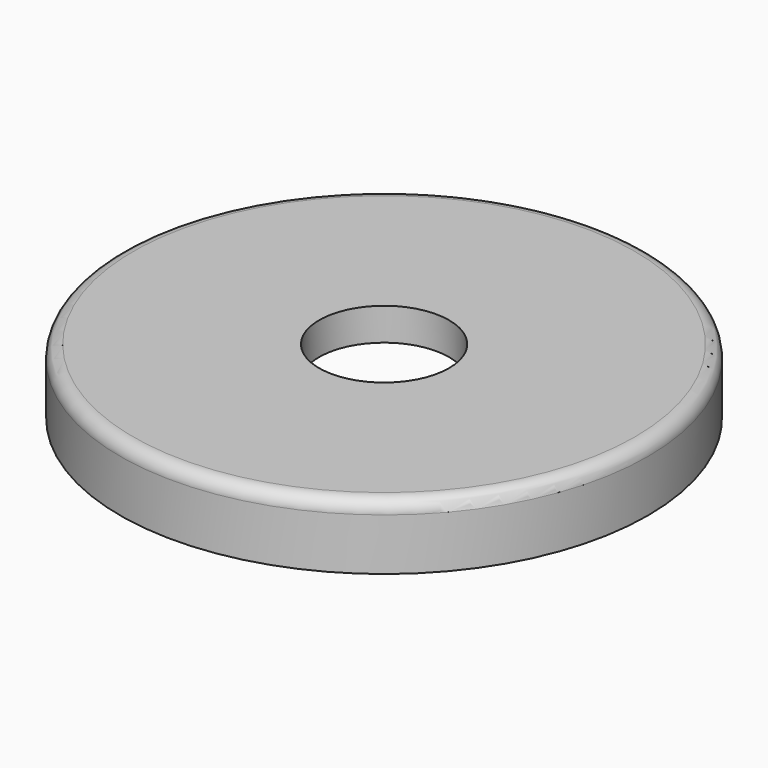
from build123d import *

# Parameters (mm, degrees)
F0_R     = 45.24375
F0_R_2   = 12.7
F1_DEPTH = 6.35
F0_R_3   = 51.59375
F2_DEPTH = 12.7
F3_R     = 2.54
F4_R     = 2.54


with BuildPart() as f1:
    # F0 (on Top) → F1 (new body)
    with BuildSketch(Plane.XY):
        Circle(F0_R)
        Circle(F0_R_2, mode=Mode.SUBTRACT)
    extrude(amount=-F1_DEPTH)

    # F0 (on Top) → F2 (join)
    with BuildSketch(Plane.XY):
        Circle(F0_R_3)
        Circle(F0_R, mode=Mode.SUBTRACT)
    extrude(amount=-F2_DEPTH)

    # F3
    f3_edges = [f1.edges().sort_by_distance(p)[0] for p in [
        (-51.59375, 0, 0),
    ]]
    fillet(f3_edges, radius=F3_R)

    # F4
    f4_edges = [f1.edges().sort_by_distance(p)[0] for p in [
        (-45.24375, 0, -12.7),
    ]]
    fillet(f4_edges, radius=F4_R)


solid = f1.part
